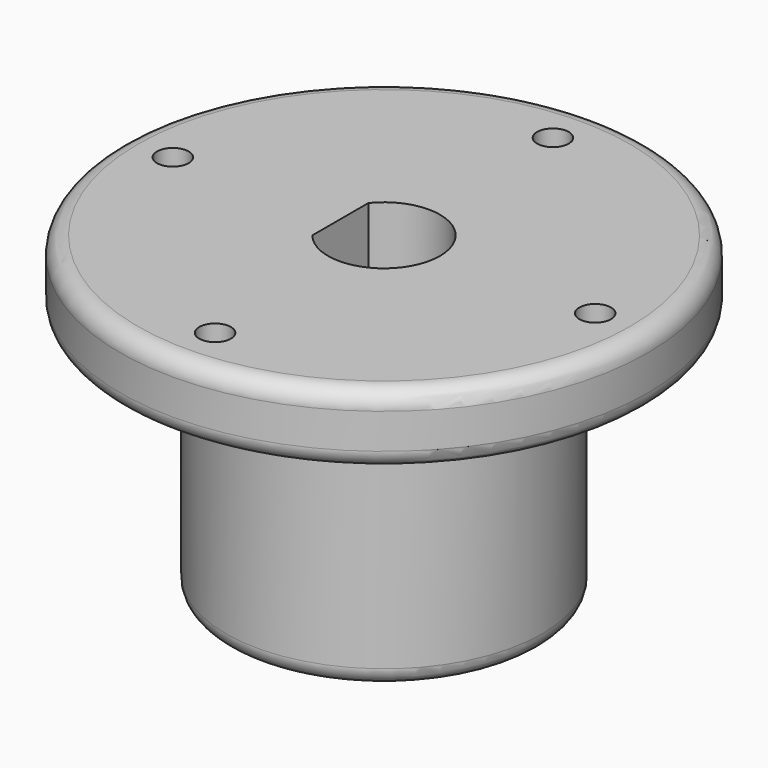
from build123d import *

# Parameters (mm, degrees)
F2_R      = 11.43
F4_DEPTH  = 22.86
F1_R      = 19.05
F1_R_2    = 4.0386
F5_DEPTH  = 5.08
F0_R      = 4.0386
F6_DEPTH  = 22.86
F7_DEPTH  = 13.462
F9_R      = 1.143
F10_DEPTH = 11.43
F11_R     = 3.175
F12_R     = 1.27
F13_R     = 1.143
F14_DEPTH = 5.1219035795


with BuildPart() as f4:
    # F2 (on Top) → F4 (new body)
    with BuildSketch(Plane.XY):
        Circle(F2_R)
    extrude(amount=-F4_DEPTH)

    # F1 (on face) → F5 (join)
    with BuildSketch(Plane.XY):
        Circle(F1_R)
        Circle(F1_R_2, mode=Mode.SUBTRACT)
    extrude(amount=-F5_DEPTH)

    # F0 (on Top) → F6 (cut)
    with BuildSketch(Plane.XY):
        Circle(F0_R)
    extrude(amount=-F6_DEPTH, mode=Mode.SUBTRACT)

    # F3 (on Top) → F7 (join)
    with BuildSketch(Plane.XY):
        with BuildLine():
            Line((-3.1496, -2.5279062087), (-3.1496, 2.5279062087))
            ThreePointArc((-3.1496, 2.5279062087), (-4.0386, 0), (-3.1496, -2.5279062087))
        make_face()
    extrude(amount=-F7_DEPTH)

    # F9 (on offset) → F10 (cut)
    with BuildSketch(Plane.YZ.offset(-11.43)):
        with Locations((0, -10.668)):
            Circle(F9_R)
    extrude(amount=F10_DEPTH, mode=Mode.SUBTRACT)

    # F11
    f11_edges = [f4.edges().sort_by_distance(p)[0] for p in [
        (-11.43, 0, -5.08),
    ]]
    fillet(f11_edges, radius=F11_R)

    # F12
    f12_edges = [f4.edges().sort_by_distance(p)[0] for p in [
        (-11.43, 0, -22.86),
        (-19.05, 0, -5.08),
        (-4.0386, 0, -22.86),
        (-19.05, 0, 0),
    ]]
    fillet(f12_edges, radius=F12_R)

    # F13 (on Top) → F14 (cut, through all)
    with BuildSketch(Plane.XY):
        with Locations((15.24, 0)):
            Circle(F13_R)
        with Locations((0, 15.24)):
            Circle(F13_R)
        with Locations((0, -15.24)):
            Circle(F13_R)
        with Locations((-15.24, 0)):
            Circle(F13_R)
    extrude(amount=-F14_DEPTH, mode=Mode.SUBTRACT)


solid = f4.part
